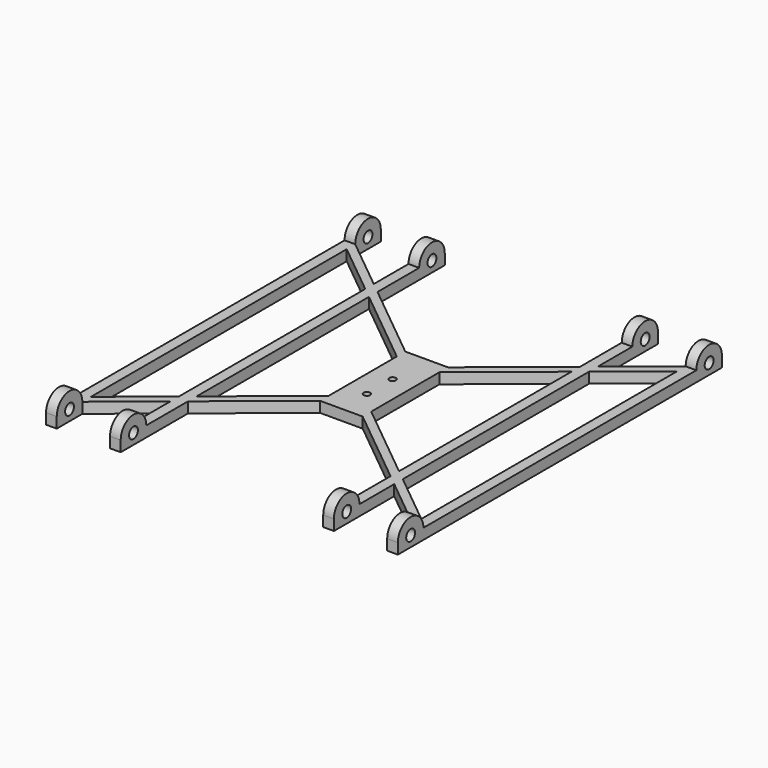
from build123d import *

# Parameters (mm, degrees)
F0_R     = 1.55
F1_DEPTH = 5
F3_DEPTH = 165
F4_DEPTH = 25
F5_R     = 2.6
F6_DEPTH = 165.001


with BuildPart() as f1:
    # F0 (on Top) → F1 (new body)
    with BuildSketch(Plane.XY):
        Polygon((-10, -25), (10, -25), (10, -20), (10, 20), (10, 25), (-10, 25), (-10, 20), (-10, -20), align=None)
        with Locations((0, -10)):
            Circle(F0_R, mode=Mode.SUBTRACT)
        with Locations((0, 5)):
            Circle(F0_R, mode=Mode.SUBTRACT)
        Polygon((10, -20), (10, -25), (47.5, -55.5555555556), (47.5, -50.5555555556), align=None)
        Polygon((-47.5, -55.5555555556), (-10, -25), (-10, -20), (-47.5, -50.5555555556), align=None)
        Polygon((52.5, -59.6296296296), (47.5, -55.5555555556), (47.5, -95), (52.5, -95), align=None)
        Polygon((47.5, -50.5555555556), (47.5, -55.5555555556), (52.5, -59.6296296296), (52.5, -54.6296296296), align=None)
        Polygon((-52.5, -59.6296296296), (-47.5, -55.5555555556), (-47.5, -50.5555555556), (-52.5, -54.6296296296), align=None)
        Polygon((-47.5, -95), (-47.5, -55.5555555556), (-52.5, -59.6296296296), (-52.5, -95), align=None)
        Polygon((10, 25), (10, 20), (47.5, 50.5555555556), (47.5, 55.5555555556), align=None)
        Polygon((52.5, -54.6296296296), (52.5, -59.6296296296), (77.5, -80), (77.5, -75), align=None)
        Polygon((-47.5, 50.5555555556), (-10, 20), (-10, 25), (-47.5, 55.5555555556), align=None)
        Polygon((-77.5, -80), (-52.5, -59.6296296296), (-52.5, -54.6296296296), (-77.5, -75), align=None)
        Polygon((47.5, 55.5555555556), (47.5, 50.5555555556), (52.5, 54.6296296296), (52.5, 59.6296296296), align=None)
        Polygon((77.5, -75), (77.5, -80), (77.5, -95), (82.5, -95), (82.5, 95), (77.5, 95), (77.5, 80), (77.5, 75), align=None)
        Polygon((-52.5, 54.6296296296), (-47.5, 50.5555555556), (-47.5, 55.5555555556), (-52.5, 59.6296296296), align=None)
        Polygon((-77.5, -95), (-77.5, -80), (-77.5, -75), (-77.5, 75), (-77.5, 80), (-77.5, 95), (-82.5, 95), (-82.5, -95), align=None)
        Polygon((47.5, 95), (47.5, 55.5555555556), (52.5, 59.6296296296), (52.5, 95), align=None)
        Polygon((52.5, 59.6296296296), (52.5, 54.6296296296), (77.5, 75), (77.5, 80), align=None)
        Polygon((-52.5, 59.6296296296), (-47.5, 55.5555555556), (-47.5, 95), (-52.5, 95), align=None)
        Polygon((-77.5, 75), (-52.5, 54.6296296296), (-52.5, 59.6296296296), (-77.5, 80), align=None)
        Polygon((-52.5, -54.6296296296), (-47.5, -50.5555555556), (-47.5, 50.5555555556), (-52.5, 54.6296296296), align=None)
        Polygon((47.5, 50.5555555556), (47.5, -50.5555555556), (52.5, -54.6296296296), (52.5, 54.6296296296), align=None)
    extrude(amount=F1_DEPTH)

    # F2 (on face) → F3 (join, through all)
    with BuildSketch(Plane(origin=(-82.5, 0, 0), x_dir=(0, -1, 0), z_dir=(-1, 0, 0))):
        with BuildLine():
            Line((-95, 5), (-80, 5))
            ThreePointArc((-80, 5), (-87.5, 12.5), (-95, 5))
        make_face()
        with BuildLine():
            Line((80, 5), (95, 5))
            ThreePointArc((95, 5), (87.5, 12.5), (80, 5))
        make_face()
    extrude(amount=-F3_DEPTH)

    # F4 (cut): faces of the model
    f4_faces = [f1.faces().sort_by_distance(p)[0] for p in [
        (65, 87.5, 5),
        (0, 87.5, 5),
        (-65, 87.5, 5),
        (-65, -87.5, 5),
        (0, -87.5, 5),
        (65, -87.5, 5),
    ]]
    extrude(f4_faces, amount=-F4_DEPTH, mode=Mode.SUBTRACT)

    # F5 (on face) → F6 (cut, through all)
    with BuildSketch(Plane.YZ.offset(82.5)):
        with Locations((-87.5, 5)):
            Circle(F5_R)
        with Locations((87.5, 5)):
            Circle(F5_R)
    extrude(amount=-F6_DEPTH, mode=Mode.SUBTRACT)


solid = f1.part
